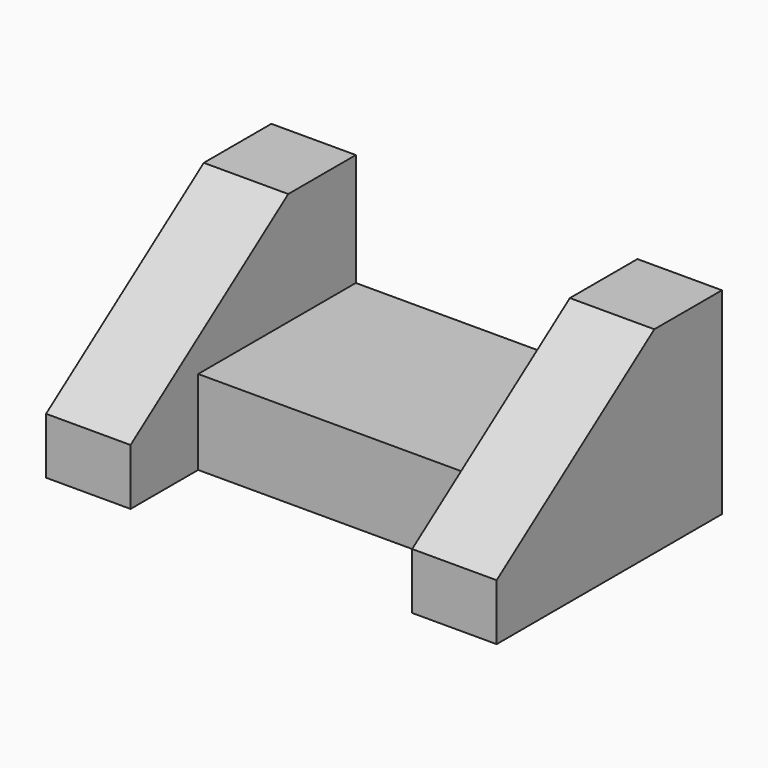
from build123d import *

# Parameters (mm, degrees)
F0_W     = 19.050004
F0_H     = 12.7
F0_W_2   = 19.05
F1_DEPTH = 63.5
F3_W     = 63.5
F3_H     = 19.05
F4_DEPTH = 19.05
F5_DEPTH = 39.99707
F7_DEPTH = 47.63301


with BuildPart() as f1:
    # F0 (on Front) → F1 (new body)
    with BuildSketch(Plane.XZ):
        Polygon((-24.340652, 0), (-24.340652, 25.4), (-43.390656, 25.4), (-43.390656, -6.35), (-24.340652, -6.35), align=None)
        Polygon((39.159348, 0), (-24.340652, 0), (-24.340652, -6.35), (-24.340652, -19.05), (39.159348, -19.05), (39.159348, -6.35), align=None)
        with Locations((-33.865654, -12.7)):
            Rectangle(F0_W, F0_H)
        Polygon((39.159348, 25.4), (39.159348, 0), (39.159348, -6.35), (58.209348, -6.35), (58.209348, 25.4), align=None)
        with Locations((48.684348, -12.7)):
            Rectangle(F0_W_2, F0_H)
    extrude(amount=F1_DEPTH)

    # F3 (on face) → F4 (cut)
    with BuildSketch(Plane.XZ.offset(63.5)):
        with Locations((7.409348, -9.525)):
            Rectangle(F3_W, F3_H)
    extrude(amount=-F4_DEPTH, mode=Mode.SUBTRACT)

    # F2 (on face) → F5 (cut)
    with BuildSketch(Plane.YZ.offset(58.209348)):
        Polygon((-63.5, 25.4), (-63.5, -6.35), (-19.05, 25.4), align=None)
    extrude(amount=-F5_DEPTH, mode=Mode.SUBTRACT)

    # F6 (on face) → F7 (cut)
    with BuildSketch(Plane(origin=(-43.390656, 0, 0), x_dir=(0, -1, 0), z_dir=(-1, 0, 0))):
        Polygon((19.05, 25.4), (63.5, -6.35), (63.5, 25.4), align=None)
    extrude(amount=-F7_DEPTH, mode=Mode.SUBTRACT)


solid = f1.part
